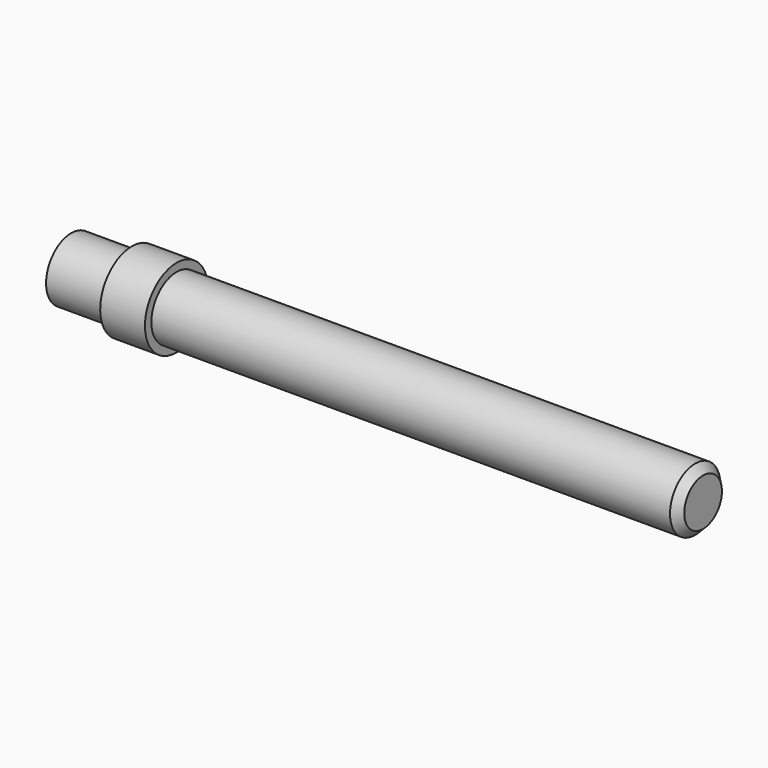
from build123d import *

# Parameters (mm, degrees)
F3_D     = 5
F3_DEPTH = 2
F3_TIP   = 1.5021515476
F4_SIZE  = 1.5


with BuildPart() as f1:
    # F0 (on Front) → F1 (revolve)
    with BuildSketch(Plane.XZ):
        Polygon((-120, 0), (0, 0), (0, 5.975), (-100, 5.975), (-100, 7.5), (-108.5, 7.5), (-108.5, 5.975), (-120, 5.975), align=None)
    revolve(axis=Axis((-60, 0, 0), (1, 0, 0)))

    # F3
    with Locations(Plane(origin=(-120, 0, 0), x_dir=(0, -1, 0), z_dir=(-1, 0, 0))):
        with Locations((0, 0)):
            Hole(F3_D / 2, depth=F3_DEPTH)
            with Locations((0, 0, -(F3_DEPTH + F3_TIP / 2))):  # 118° drill point
                Cone(0, F3_D / 2, F3_TIP, mode=Mode.SUBTRACT)

    # F4
    f4_edges = [f1.edges().sort_by_distance(p)[0] for p in [
        (0, 0, -5.975),
    ]]
    chamfer(f4_edges, length=F4_SIZE)


solid = f1.part
